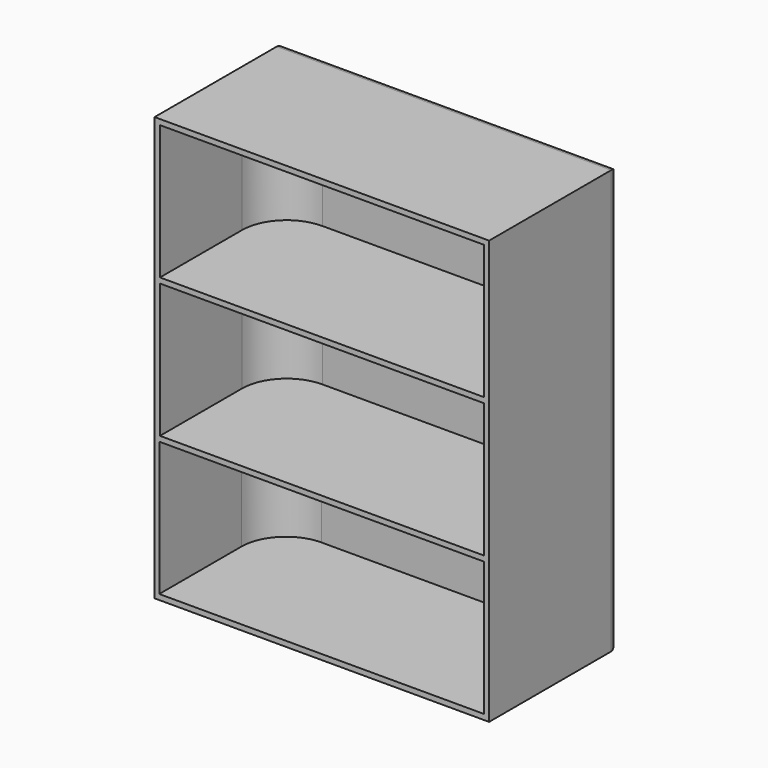
from build123d import *

# Parameters (mm, degrees)
SKETCH017_W   = 75
SKETCH017_H   = 95
PAD013_DEPTH  = 3
SKETCH018_W   = 75
SKETCH018_H   = 95
SKETCH018_W_2 = 72.6
SKETCH018_H_2 = 30.066667
SKETCH018_H_3 = 30.066666
SKETCH018_W_3 = 72.757653
PAD014_DEPTH  = 35
FILLET012_R   = 1.8
FILLET013_R   = 10


with BuildPart() as part:
    # Sketch017 → Pad013 (new body)
    with BuildSketch(Plane.XZ):
        Rectangle(SKETCH017_W, SKETCH017_H)
    extrude(amount=PAD013_DEPTH)

    # Sketch018 → Pad014 (join)
    with BuildSketch(Plane.XZ.offset(1)):
        Rectangle(SKETCH018_W, SKETCH018_H)
        with Locations((0, 31.266666)):
            Rectangle(SKETCH018_W_2, SKETCH018_H_2, mode=Mode.SUBTRACT)
        Rectangle(SKETCH018_W_2, SKETCH018_H_3, mode=Mode.SUBTRACT)
        with Locations((-0.078827, -31.266666)):
            Rectangle(SKETCH018_W_3, SKETCH018_H_2, mode=Mode.SUBTRACT)
    extrude(amount=PAD014_DEPTH)

    # Fillet012
    fillet012_edges = [part.edges().sort_by_distance(p)[0] for p in [
        (0, 0, 47.5),
        (37.5, 0, 0),
        (0, 0, -47.5),
        (-37.5, 0, 0),
    ]]
    fillet(fillet012_edges, radius=FILLET012_R)

    # Fillet013
    fillet013_edges = [part.edges().sort_by_distance(p)[0] for p in [
        (36.3, -3, 31.266667),
        (36.3, -3, 0),
        (36.3, -3, -31.266667),
        (-36.3, -3, 31.266667),
        (-36.3, -3, 0),
        (-36.457653, -3, -31.266667),
    ]]
    fillet(fillet013_edges, radius=FILLET013_R)


solid = part.part
